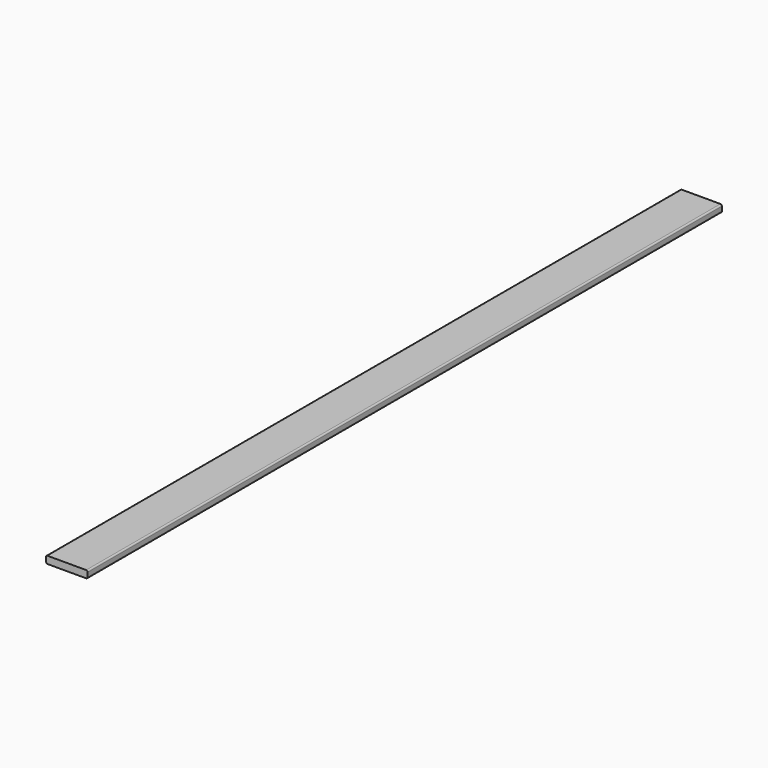
from build123d import *

# Parameters (mm, degrees)
F1_DEPTH = 1298.956


with BuildPart() as f1:
    # F0 (on Front) → F1 (new body, symmetric)
    with BuildSketch(Plane.XZ):
        with BuildLine():
            Line((63.246, 11.938), (-63.246, 11.938))
            ThreePointArc((-63.246, 11.938), (-66.658497, 10.524497), (-68.072, 7.112))
            Line((-68.072, 7.112), (-68.072, -7.112))
            ThreePointArc((-68.072, -7.112), (-66.658497, -10.524497), (-63.246, -11.938))
            Line((-63.246, -11.938), (63.246, -11.938))
            ThreePointArc((63.246, -11.938), (66.658497, -10.524497), (68.072, -7.112))
            Line((68.072, -7.112), (68.072, 7.112))
            ThreePointArc((68.072, 7.112), (66.658497, 10.524497), (63.246, 11.938))
        make_face()
    extrude(amount=F1_DEPTH, both=True)


solid = f1.part
